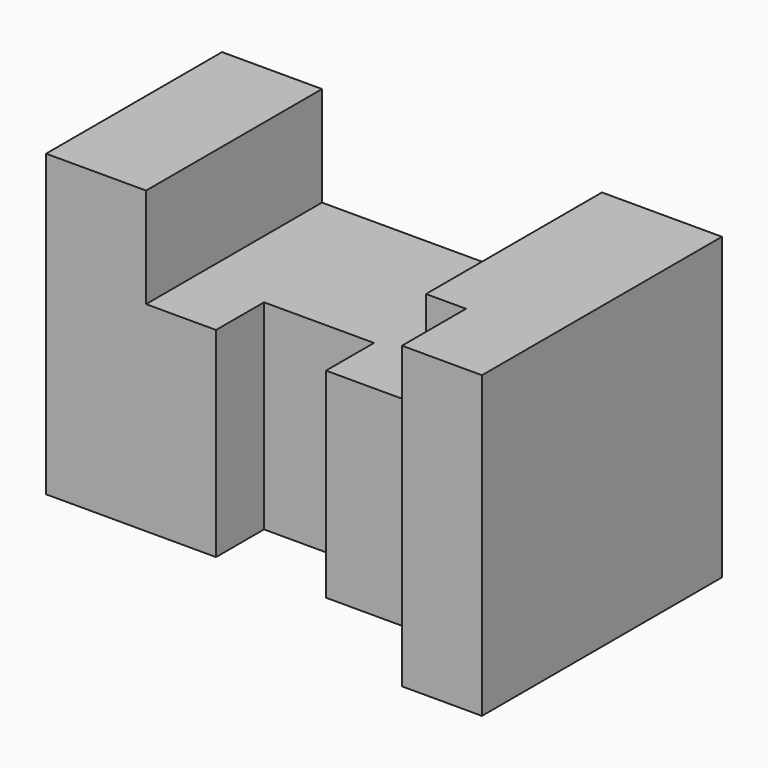
from build123d import *

# Parameters (mm, degrees)
F1_DEPTH = 75
F2_W     = 70
F2_H     = 25
F3_DEPTH = 55.001


with BuildPart() as f1:
    # F0 (on Top) → F1 (new body)
    with BuildSketch(Plane.XY):
        Polygon((0, 55), (0, 0), (42.5, 0), (42.5, 15), (70, 15), (70, 0), (105, 0), (105, -20), (125, -20), (125, 55), align=None)
    extrude(amount=-F1_DEPTH)

    # F2 (on Front) → F3 (cut, through all)
    with BuildSketch(Plane.XZ):
        with Locations((60, -12.5)):
            Rectangle(F2_W, F2_H)
    extrude(amount=-F3_DEPTH, mode=Mode.SUBTRACT)


solid = f1.part
